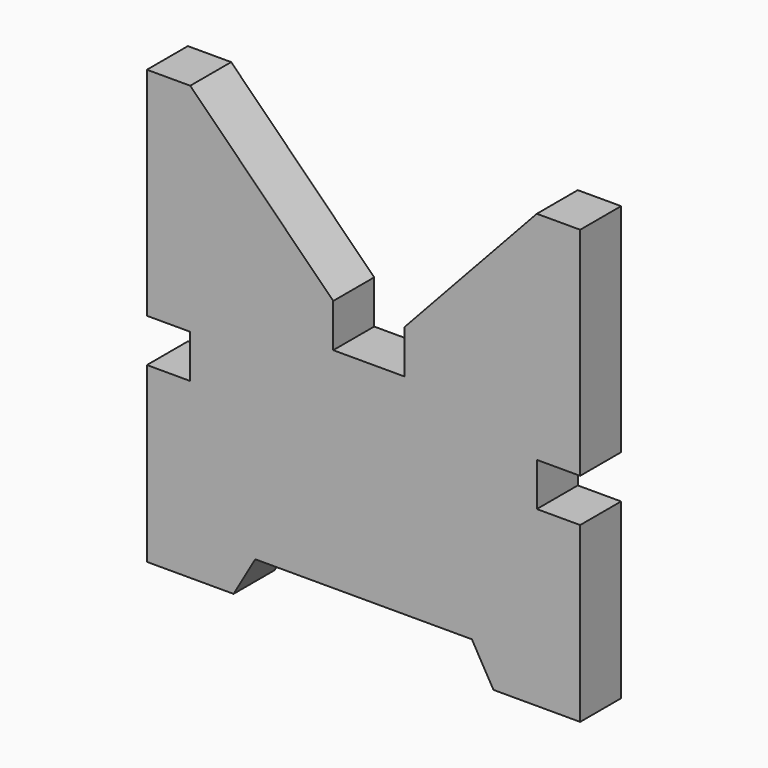
from build123d import *

# Parameters (mm, degrees)
F1_DEPTH = 30


with BuildPart() as f1:
    # F0 (on Front) → F1 (new body)
    with BuildSketch(Plane.XZ):
        Polygon((-124.346534, 137.970364), (-149.746534, 137.970364), (-149.746534, 10.970364), (-124.346534, 10.970364), (-124.346534, -14.429636), (-149.746534, -14.429636), (-149.746534, -116.029636), (-98.946534, -116.029636), (-86.25952, -94.025098), (40.74048, -94.025098), (53.437884, -116.023642), (104.237884, -116.029636), (104.237884, -14.429636), (78.837884, -14.429636), (78.837884, 10.970364), (104.237884, 10.970364), (104.237884, 137.970364), (78.837884, 137.970364), (1.137588, 54.142242), (1.137588, 28.742242), (-40.518412, 28.742242), (-40.518412, 54.142242), align=None)
    extrude(amount=F1_DEPTH)


solid = f1.part
